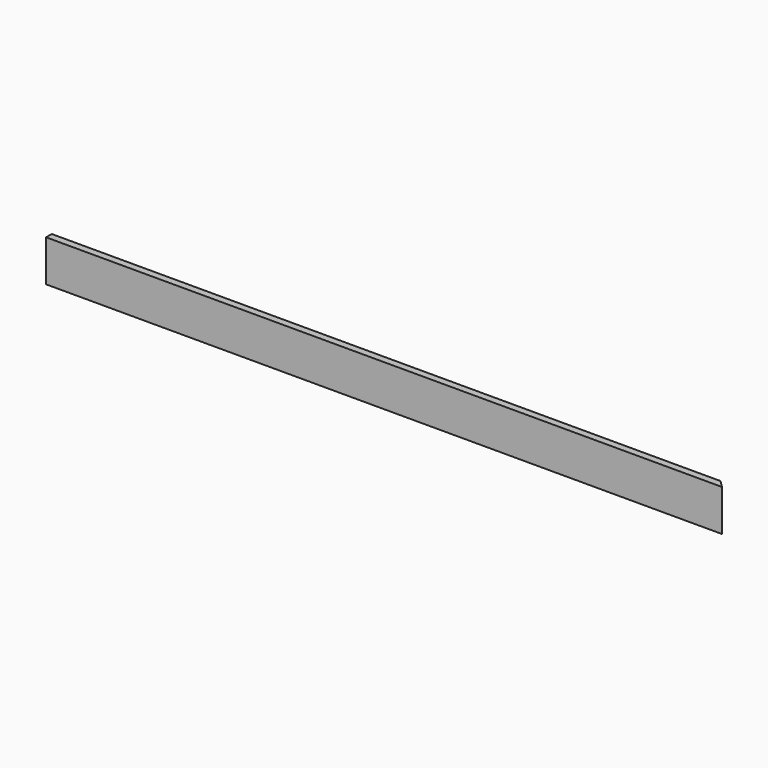
from build123d import *

# Parameters (mm, degrees)
F0_W     = 1905
F0_H     = 101.6
F1_DEPTH = 17.4625
F3_DEPTH = 101.601


with BuildPart() as f1:
    # F0 (on Front) → F1 (new body)
    with BuildSketch(Plane.XZ):
        with Locations((952.5, 50.8)):
            Rectangle(F0_W, F0_H)
    extrude(amount=F1_DEPTH)

    # F2 (on face) → F3 (cut, through all)
    with BuildSketch(Plane.XY.offset(101.6)):
        Polygon((1639.8875, 0), (1657.35, -17.4625), (1905, -17.4625), (1905, 0), align=None)
    extrude(amount=-F3_DEPTH, mode=Mode.SUBTRACT)


solid = f1.part
